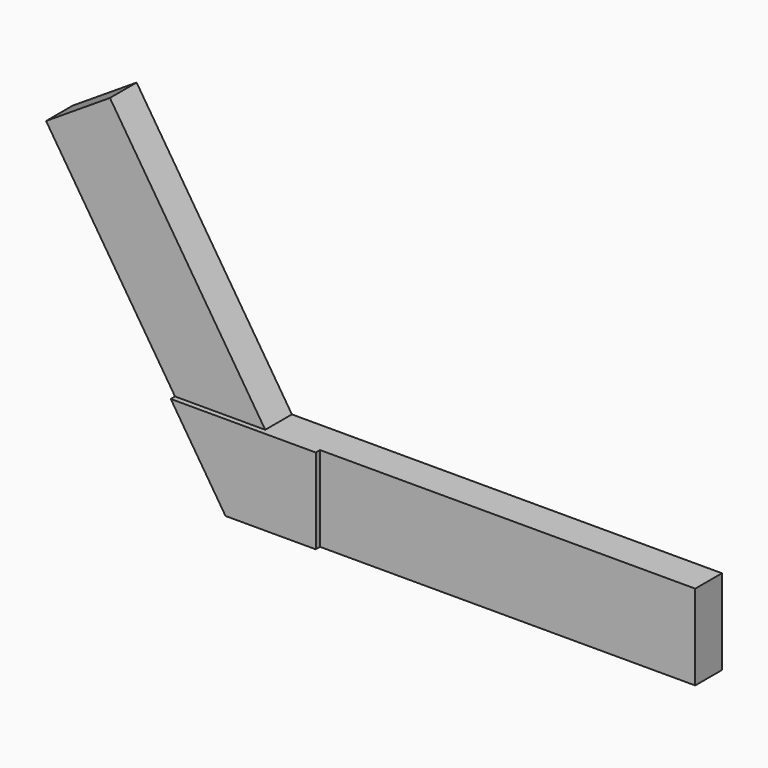
from build123d import *

# Parameters (mm, degrees)
F1_DEPTH = 25
F2_DEPTH = 25
F5_DEPTH = 4


with BuildPart() as f1:
    # F0 (on Front) → F1 (new body)
    with BuildSketch(Plane.XZ):
        Polygon((-67.6198684814, 0), (0, 0), (-41.0613296764, 63.8877525926), (-157.4556678534, 244.9869215488), (-205.308600446, 214.2313391182), align=None)
    extrude(amount=F1_DEPTH)

    # F0 (on Front) → F2 (join)
    with BuildSketch(Plane.XZ):
        Polygon((-41.0613296764, 63.8877525926), (0, 0), (281.2067568302, 0), (281.2067568302, 63.8877525926), align=None)
    extrude(amount=F2_DEPTH)

    # F4 (on offset) → F5 (join)
    with BuildSketch(Plane.XZ.offset(25)):
        Polygon((0, 0), (0, 63.8877525926), (-108.6811981577, 63.8877525926), (-67.6198684814, 0), align=None)
    extrude(amount=F5_DEPTH)


solid = f1.part
